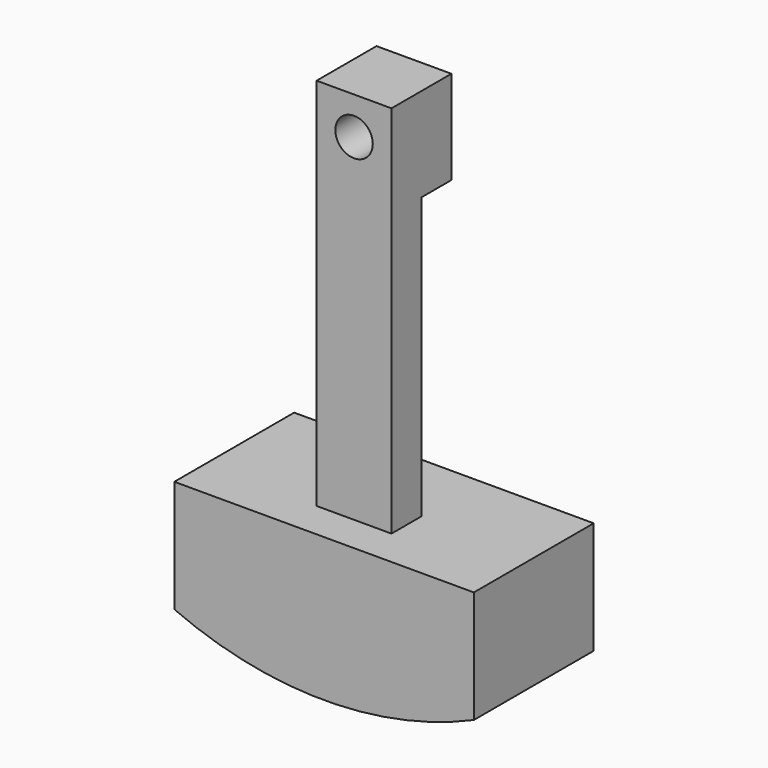
from build123d import *

# Parameters (mm, degrees)
F0_W     = 101.6
F0_H     = 508
F0_R     = 25.4
F1_DEPTH = 50.8
F3_DEPTH = 101.6
F4_W     = 50.8
F4_H     = 381
F5_DEPTH = 254.001


with BuildPart() as f1:
    # F0 (on Front) → F1 (new body, symmetric)
    with BuildSketch(Plane.XZ):
        with Locations((0, 254)):
            Rectangle(F0_W, F0_H)
        with Locations((0, 457.2)):
            Circle(F0_R, mode=Mode.SUBTRACT)
    extrude(amount=F1_DEPTH, both=True)

    # F2 (on Front) → F3 (join, symmetric)
    with BuildSketch(Plane.XZ):
        with BuildLine():
            Line((203.2, 0), (-203.2, 0))
            Line((-203.2, 0), (-203.2, -152.4))
            ThreePointArc((-203.2, -152.4), (0, -194.810309), (203.2, -152.4))
            Line((203.2, -152.4), (203.2, 0))
        make_face()
    extrude(amount=F3_DEPTH, both=True)

    # F4 (on face) → F5 (cut, through all)
    with BuildSketch(Plane.YZ.offset(50.8)):
        with Locations((25.4, 190.5)):
            Rectangle(F4_W, F4_H)
    extrude(amount=-F5_DEPTH, mode=Mode.SUBTRACT)


solid = f1.part
